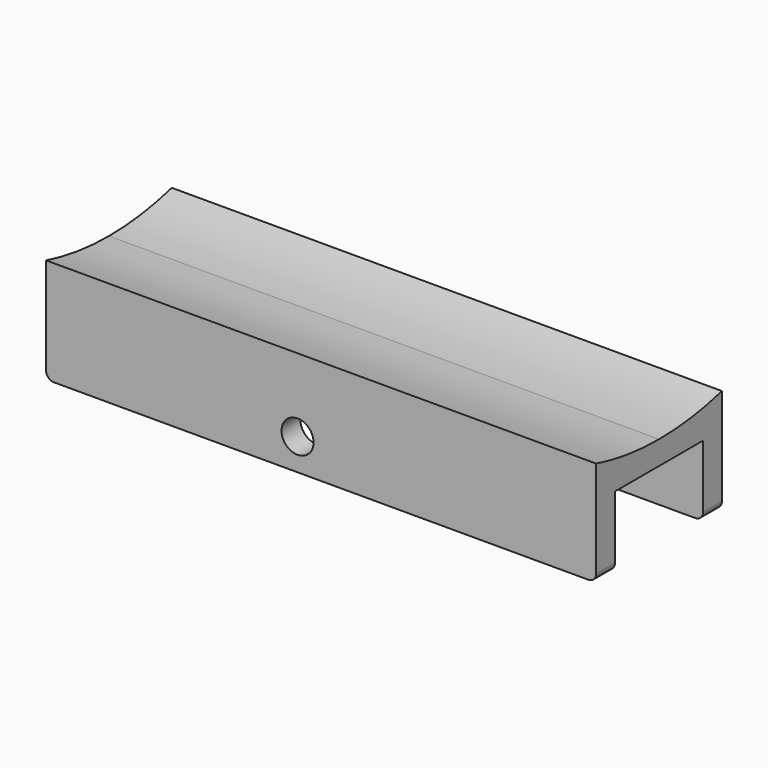
from build123d import *

# Parameters (mm, degrees)
F0_W     = 35
F0_H     = 5
F1_DEPTH = 1.5
F2_W     = 35
F2_H     = 1.5
F3_DEPTH = 4.5
F4_R     = 1.02
F5_DEPTH = 5.001
F6_R     = 0.5
F9_DEPTH = 35


with BuildPart() as f1:
    # F0 (on Top) → F1 (new body)
    with BuildSketch(Plane.XY):
        with Locations((17.5, -2.5)):
            Rectangle(F0_W, F0_H)
    extrude(amount=-F1_DEPTH)

    # F2 (on face) → F3 (join)
    with BuildSketch(Plane(origin=(0, 0, -1.5), x_dir=(1, 0, 0), z_dir=(0, 0, -1))):
        with Locations((17.5, 4.25)):
            Rectangle(F2_W, F2_H)
    extrude(amount=F3_DEPTH)

    # F4 (on face) → F5 (cut, through all)
    with BuildSketch(Plane.XZ.offset(5)):
        with Locations((16, -4)):
            Circle(F4_R)
    extrude(amount=-F5_DEPTH, mode=Mode.SUBTRACT)

    # F6
    f6_edges = [f1.edges().sort_by_distance(p)[0] for p in [
        (35, -4.25, -6),
        (0, -4.25, -6),
    ]]
    fillet(f6_edges, radius=F6_R)

    # F7: F1 across plane


with BuildPart() as f1_1:
    add(f1.part)
    add(f1.part.mirror(Plane.XZ))

    # F8 (on Right) → F9 (join, through all)
    with BuildSketch(Plane.YZ):
        with BuildLine():
            ThreePointArc((0, 0), (-2.522204, 0.167707), (-5, 0.667876))
            Line((-5, 0.667876), (-5, 0))
            Line((-5, 0), (0, 0))
        make_face()
        with BuildLine():
            Line((5, 0), (5, 0.667876))
            ThreePointArc((5, 0.667876), (2.522204, 0.167707), (0, 0))
            Line((0, 0), (5, 0))
        make_face()
    extrude(amount=F9_DEPTH)


solid = f1_1.part
